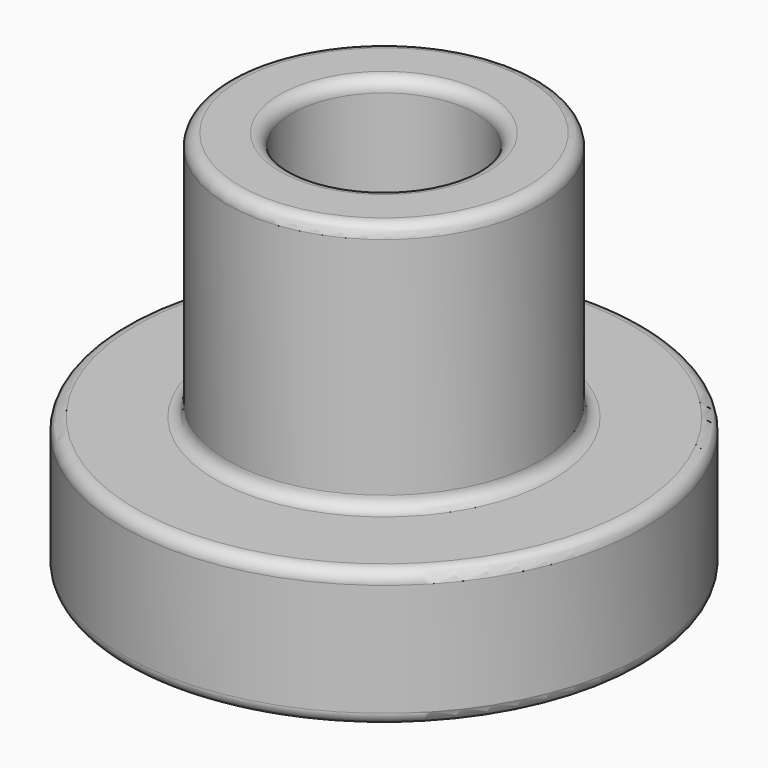
from build123d import *

# Parameters (mm, degrees)
F0_R     = 12.5
F1_DEPTH = 6.6
F2_R     = 7.5
F3_DEPTH = 12
F4_R     = 4.4
F5_DEPTH = 18.601
F6_R     = 0.6


with BuildPart() as f1:
    # F0 (on Top) → F1 (new body)
    with BuildSketch(Plane.XY):
        Circle(F0_R)
    extrude(amount=F1_DEPTH)

    # F2 (on face) → F3 (join)
    with BuildSketch(Plane.XY.offset(6.6)):
        Circle(F2_R)
    extrude(amount=F3_DEPTH)

    # F4 (on Top) → F5 (cut, through all)
    with BuildSketch(Plane.XY):
        Circle(F4_R)
    extrude(amount=F5_DEPTH, mode=Mode.SUBTRACT)

    # F6
    f6_edges = [f1.edges().sort_by_distance(p)[0] for p in [
        (-4.4, 0, 18.6),
        (-7.5, 0, 18.6),
        (-7.5, 0, 6.6),
        (12.5, 0, 3.3),
        (-12.5, 0, 0),
        (-12.5, 0, 6.6),
        (-4.4, 0, 0),
    ]]
    fillet(f6_edges, radius=F6_R)


solid = f1.part
